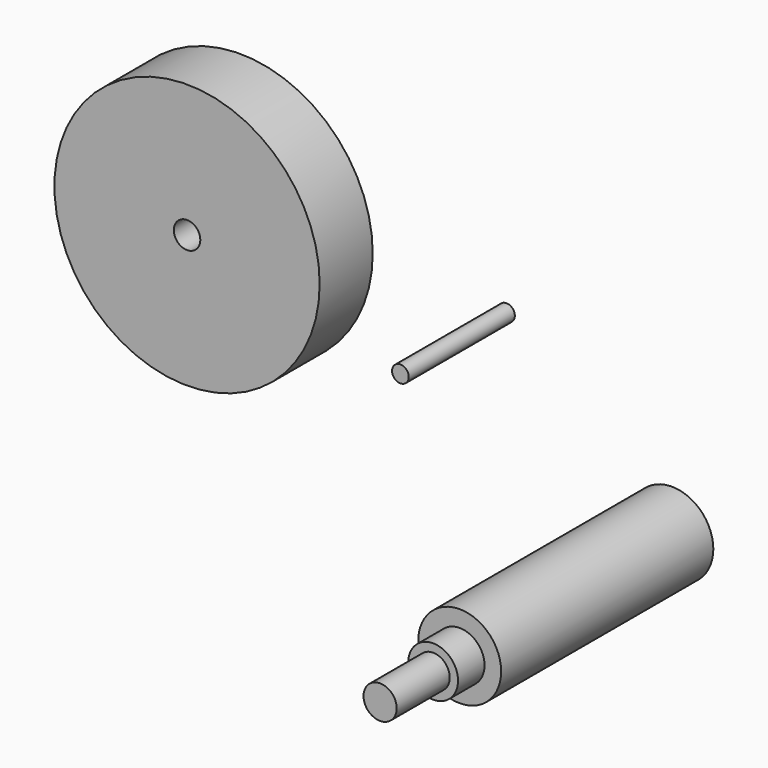
from build123d import *

# Parameters (mm, degrees)
F0_R     = 3.194794
F1_DEPTH = 50.8
F2_R     = 50.8
F2_R_2   = 5.08
F3_DEPTH = 25.4
F4_R     = 15.875
F5_DEPTH = 101.6
F6_R     = 9.525
F7_DEPTH = 12.7
F8_R     = 6.35
F9_DEPTH = 25.4


with BuildPart() as f1:
    # F0 (on Front) → F1 (new body)
    with BuildSketch(Plane.XZ):
        with Locations((-39.54114, 27.357597)):
            Circle(F0_R)
    extrude(amount=F1_DEPTH)


with BuildPart() as f3:
    # F2 (on Front) → F3 (new body)
    with BuildSketch(Plane.XZ):
        with Locations((-141.576171, 30.684415)):
            Circle(F2_R)
        with Locations((-141.576171, 30.684415)):
            Circle(F2_R_2, mode=Mode.SUBTRACT)
    extrude(amount=F3_DEPTH)


with BuildPart() as f5:
    # F4 (on Front) → F5 (new body)
    with BuildSketch(Plane.XZ):
        with Locations((23.811959, -26.574958)):
            Circle(F4_R)
    extrude(amount=F5_DEPTH)

    # F6 (on face) → F7 (join)
    with BuildSketch(Plane.XZ.offset(101.6)):
        with Locations((23.811959, -26.574958)):
            Circle(F6_R)
    extrude(amount=F7_DEPTH)

    # F8 (on face) → F9 (join)
    with BuildSketch(Plane.XZ.offset(114.3)):
        with Locations((23.811959, -26.574958)):
            Circle(F8_R)
    extrude(amount=F9_DEPTH)


solid = Compound([f1.part, f3.part, f5.part])
